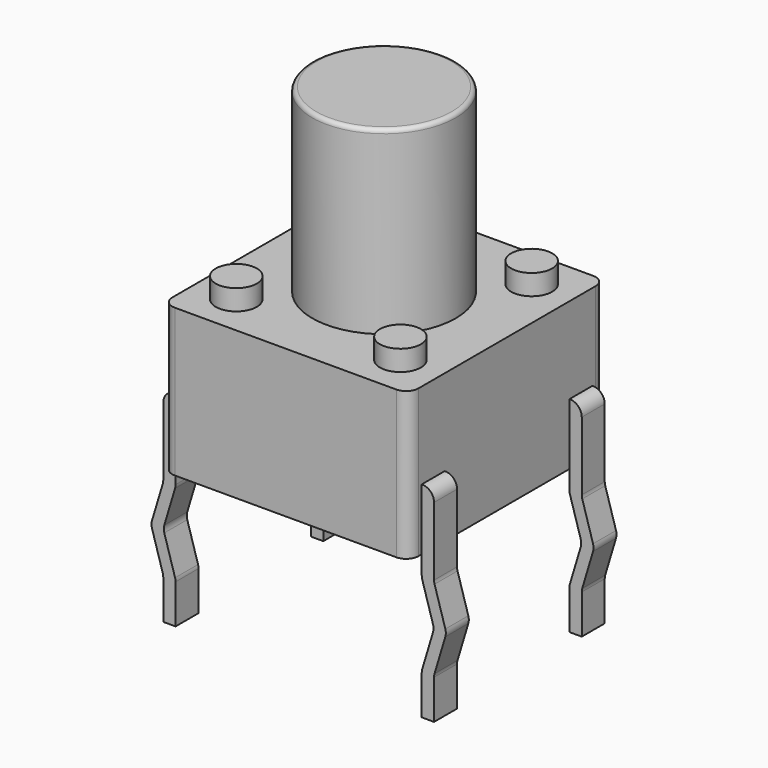
from build123d import *

# Parameters (mm, degrees)
SKETCH001_W  = 6
SKETCH001_H  = 6
PAD001_DEPTH = 0.1
FILLET001_R  = 0.3
PAD008_DEPTH = 0.7
FILLET003_R  = 0.29
PAD009_DEPTH = 0.7
FILLET004_R  = 0.29
PAD010_DEPTH = 0.7
FILLET005_R  = 0.29
SKETCH_W     = 6
SKETCH_H     = 6
PAD_DEPTH    = 3.5
FILLET_R     = 0.3
SKETCH004_R  = 0.5
PAD003_DEPTH = 0.6
SKETCH003_R  = 0.5
PAD004_DEPTH = 0.6
SKETCH005_R  = 0.5
PAD002_DEPTH = 0.6
SKETCH002_R  = 0.5
PAD005_DEPTH = 0.6
SKETCH006_R  = 1.75
PAD006_DEPTH = 4.5
FILLET006_R  = 0.1
PAD007_DEPTH = 0.7
FILLET002_R  = 0.29


with BuildPart() as fillet001:
    # Sketch001 → Pad001 (new body)
    with BuildSketch(Plane.XY.offset(3.5)):
        with Locations((3.15, -2.25)):
            Rectangle(SKETCH001_W, SKETCH001_H)
    extrude(amount=PAD001_DEPTH)

    # Fillet001
    fillet001_edges = [fillet001.edges().sort_by_distance(p)[0] for p in [
        (6.15, -5.25, 3.55),
        (0.15, -5.25, 3.55),
        (6.15, 0.75, 3.55),
        (0.15, 0.75, 3.55),
    ]]
    fillet(fillet001_edges, radius=FILLET001_R)


with BuildPart() as fillet003:
    # Sketch008 → Pad008 (new body)
    with BuildSketch(Plane.XZ.offset(0.35)):
        Polygon((-0.15, 1.5), (0.15, 1.5), (0.15, -0.5), (-0.15, -1.5), (0.15, -2.5), (0.15, -3.5), (-0.15, -3.5), (-0.15, -2.5), (-0.45, -1.5), (-0.15, -0.5), align=None)
    extrude(amount=-PAD008_DEPTH)

    # Fillet003
    fillet003_edges = [fillet003.edges().sort_by_distance(p)[0] for p in [
        (-0.15, 0, -2.5),
        (-0.15, 0, -0.5),
        (-0.45, 0, -1.5),
        (-0.15, 0, 1.5),
        (0.15, 0, -0.5),
        (-0.15, 0, -1.5),
        (0.15, 0, -2.5),
    ]]
    fillet(fillet003_edges, radius=FILLET003_R)


with BuildPart() as fillet004:
    # Sketch009 → Pad009 (new body)
    with BuildSketch(Plane.XZ.offset(4.85)):
        Polygon((6.45, 1.5), (6.15, 1.5), (6.15, -0.5), (6.45, -1.5), (6.15, -2.5), (6.15, -3.5), (6.45, -3.5), (6.45, -2.5), (6.75, -1.5), (6.45, -0.5), align=None)
    extrude(amount=-PAD009_DEPTH)

    # Fillet004
    fillet004_edges = [fillet004.edges().sort_by_distance(p)[0] for p in [
        (6.45, -4.5, -2.5),
        (6.45, -4.5, -0.5),
        (6.75, -4.5, -1.5),
        (6.45, -4.5, 1.5),
        (6.15, -4.5, -0.5),
        (6.45, -4.5, -1.5),
        (6.15, -4.5, -2.5),
    ]]
    fillet(fillet004_edges, radius=FILLET004_R)


with BuildPart() as fillet005:
    # Sketch010 → Pad010 (new body)
    with BuildSketch(Plane.XZ.offset(0.35)):
        Polygon((6.45, 1.5), (6.15, 1.5), (6.15, -0.5), (6.45, -1.5), (6.15, -2.5), (6.15, -3.5), (6.45, -3.5), (6.45, -2.5), (6.75, -1.5), (6.45, -0.5), align=None)
    extrude(amount=-PAD010_DEPTH)

    # Fillet005
    fillet005_edges = [fillet005.edges().sort_by_distance(p)[0] for p in [
        (6.45, 0, -2.5),
        (6.45, 0, -0.5),
        (6.75, 0, -1.5),
        (6.45, 0, 1.5),
        (6.15, 0, -0.5),
        (6.45, 0, -1.5),
        (6.15, 0, -2.5),
    ]]
    fillet(fillet005_edges, radius=FILLET005_R)


with BuildPart() as fillet_body:
    # Sketch → Pad (new body)
    with BuildSketch(Plane.XY):
        with Locations((3.15, -2.25)):
            Rectangle(SKETCH_W, SKETCH_H)
    extrude(amount=PAD_DEPTH)

    # Fillet
    fillet_edges = [fillet_body.edges().sort_by_distance(p)[0] for p in [
        (6.15, 0.75, 1.75),
        (6.15, -5.25, 1.75),
        (0.15, -5.25, 1.75),
        (0.15, 0.75, 1.75),
    ]]
    fillet(fillet_edges, radius=FILLET_R)


with BuildPart() as pad003:
    # Pad003 base: copy of Fillet body
    add(fillet_body.part)

    # Sketch004 → Pad003 (new body)
    with BuildSketch(Plane.XY.offset(3.5)):
        with Locations((5.15, -0.25)):
            Circle(SKETCH004_R)
    extrude(amount=PAD003_DEPTH)


with BuildPart() as pad004:
    # Pad004 base: copy of Fillet body
    add(fillet_body.part)

    # Sketch003 → Pad004 (new body)
    with BuildSketch(Plane.XY.offset(3.5)):
        with Locations((5.15, -4.25)):
            Circle(SKETCH003_R)
    extrude(amount=PAD004_DEPTH)


with BuildPart() as pad002:
    # Pad002 base: copy of Fillet body
    add(fillet_body.part)

    # Sketch005 → Pad002 (new body)
    with BuildSketch(Plane.XY.offset(3.5)):
        with Locations((1.15, -0.25)):
            Circle(SKETCH005_R)
    extrude(amount=PAD002_DEPTH)


with BuildPart() as pad005:
    # Pad005 base: copy of Fillet body
    add(fillet_body.part)

    # Sketch002 → Pad005 (new body)
    with BuildSketch(Plane.XY.offset(3.5)):
        with Locations((1.15, -4.25)):
            Circle(SKETCH002_R)
    extrude(amount=PAD005_DEPTH)


with BuildPart() as fillet006:
    # Pad006 base: copy of Fillet body
    add(fillet_body.part)

    # Sketch006 → Pad006 (new body)
    with BuildSketch(Plane.XY.offset(3.5)):
        with Locations((3.15, -2.25)):
            Circle(SKETCH006_R)
    extrude(amount=PAD006_DEPTH)

    # Fillet006
    fillet006_edges = [fillet006.edges().sort_by_distance(p)[0] for p in [
        (1.4, -2.25, 8),
    ]]
    fillet(fillet006_edges, radius=FILLET006_R)


with BuildPart() as obj1:
    # Sketch007 → Pad007 (new body)
    with BuildSketch(Plane.XZ.offset(4.85)):
        Polygon((-0.15, 1.5), (0.15, 1.5), (0.15, -0.5), (-0.15, -1.5), (0.15, -2.5), (0.15, -3.5), (-0.15, -3.5), (-0.15, -2.5), (-0.45, -1.5), (-0.15, -0.5), align=None)
    extrude(amount=-PAD007_DEPTH)

    # Fillet002
    fillet002_edges = [obj1.edges().sort_by_distance(p)[0] for p in [
        (-0.15, -4.5, -2.5),
        (-0.15, -4.5, -0.5),
        (-0.45, -4.5, -1.5),
        (-0.15, -4.5, 1.5),
        (0.15, -4.5, -0.5),
        (-0.15, -4.5, -1.5),
        (0.15, -4.5, -2.5),
    ]]
    fillet(fillet002_edges, radius=FILLET002_R)

    add(fillet001.part)
    add(fillet003.part)
    add(fillet004.part)
    add(fillet005.part)
    add(pad003.part)
    add(pad004.part)
    add(pad002.part)
    add(pad005.part)
    add(fillet006.part)


solid = obj1.part
